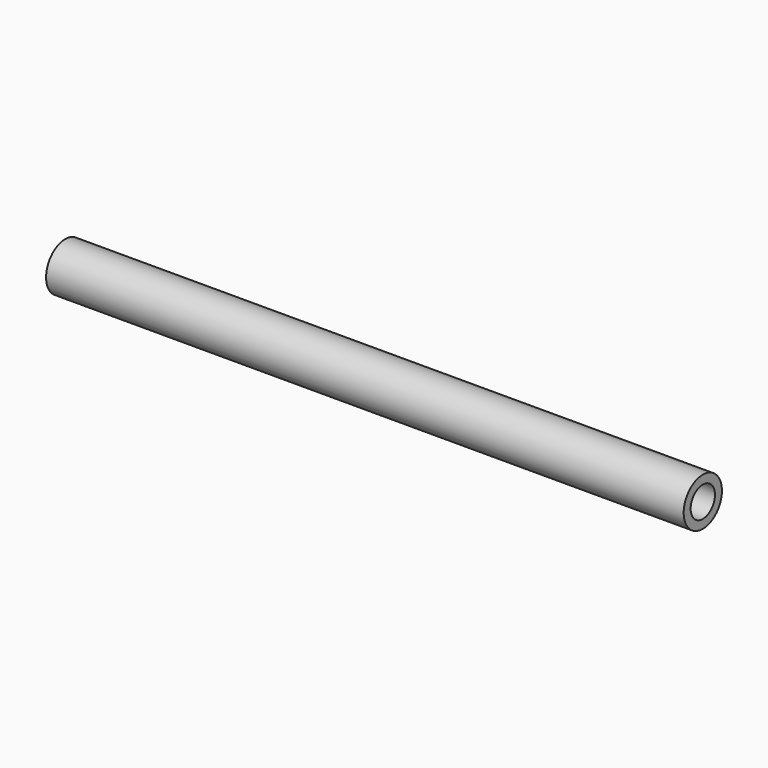
from build123d import *

# Parameters (mm, degrees)
F2_R     = 9.525
F3_DEPTH = 400.001


with BuildPart() as f1:
    # F0 (on Front) → F1 (revolve)
    with BuildSketch(Plane.XZ):
        Polygon((-199.943601, -0.000212), (0.056399, -0.000212), (200.056399, -0.000212), (200.056399, 14.999788), (-199.943601, 14.999788), align=None)
    revolve(axis=Axis((0.056399, 0, -0.000212), (-1, 0, 0)))

    # F2 (on face) → F3 (cut, through all)
    with BuildSketch(Plane(origin=(-199.943601, 0, 0), x_dir=(0, -1, 0), z_dir=(-1, 0, 0))):
        Circle(F2_R)
    extrude(amount=-F3_DEPTH, mode=Mode.SUBTRACT)


solid = f1.part
